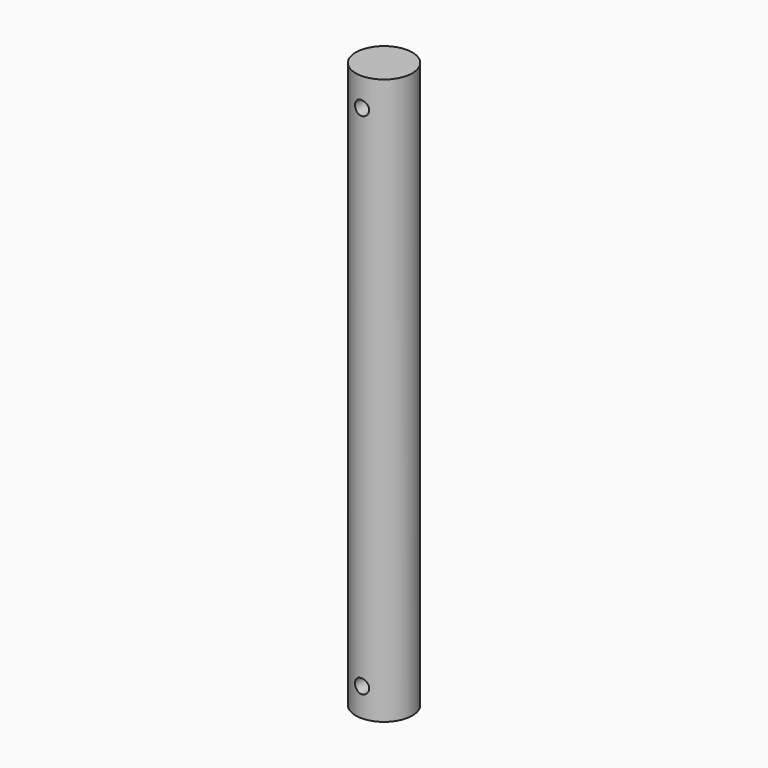
from build123d import *

# Parameters (mm, degrees)
F0_R          = 12.7
F1_DEPTH      = 254
F3_DEPTH      = 25.4
F3_DEPTH_BACK = 25.4
F5_DEPTH      = 25.4
F5_DEPTH_BACK = 25.4


with BuildPart() as f1:
    # F0 (on Top) → F1 (new body)
    with BuildSketch(Plane.XY):
        Circle(F0_R)
    extrude(amount=F1_DEPTH)

    # F2 (on Front) → F3 (cut, two sides)
    with BuildSketch(Plane.XZ) as f3_sk:
        with BuildLine():
            ThreePointArc((0, 9.525), (2.2450640303, 10.4549359697), (3.175, 12.7))
            ThreePointArc((3.175, 12.7), (-2.2450640303, 14.9450640303), (0, 9.525))
        make_face()
    extrude(amount=-F3_DEPTH, mode=Mode.SUBTRACT)
    extrude(f3_sk.sketch, amount=F3_DEPTH_BACK, mode=Mode.SUBTRACT)

    # F4 (on Front) → F5 (cut, two sides)
    with BuildSketch(Plane.XZ) as f5_sk:
        with BuildLine():
            ThreePointArc((0, 238.125), (2.2450640303, 239.0549359697), (3.175, 241.3))
            ThreePointArc((3.175, 241.3), (-2.2450640303, 243.5450640303), (0, 238.125))
        make_face()
    extrude(amount=-F5_DEPTH, mode=Mode.SUBTRACT)
    extrude(f5_sk.sketch, amount=F5_DEPTH_BACK, mode=Mode.SUBTRACT)


solid = f1.part
